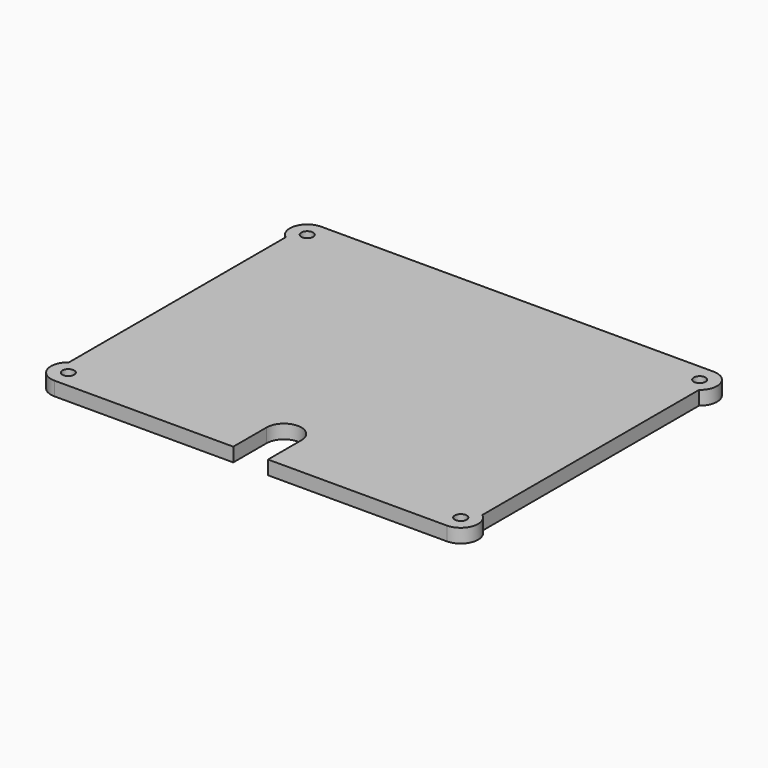
from build123d import *

# Parameters (mm, degrees)
SKETCH_R  = 1.7
PAD_DEPTH = 4


with BuildPart() as part:
    # Sketch → Pad (new body)
    with BuildSketch(Plane.XY):
        with BuildLine():
            Line((-56.499984, 48), (56.5, 48))
            ThreePointArc((59.5, 39), (61.243416, 44.581139), (56.5, 48))
            Line((59.5, 39), (59.5, -39))
            ThreePointArc((56.5, -48), (61.243416, -44.581139), (59.5, -39))
            Line((5, -48), (56.5, -48))
            Line((5, -48), (5, -36))
            ThreePointArc((5, -36), (0, -31), (-5, -36))
            Line((-5, -48), (-5, -36))
            Line((-56.5, -48), (-5, -48))
            ThreePointArc((-59.5, -39), (-61.243416, -44.581139), (-56.5, -48))
            Line((-59.5, 39), (-59.5, -39))
            ThreePointArc((-56.499984, 48), (-61.243414, 44.581147), (-59.5, 39))
        make_face()
        with Locations((-56.5, 43)):
            Circle(SKETCH_R, mode=Mode.SUBTRACT)
        with Locations((56.5, 43)):
            Circle(SKETCH_R, mode=Mode.SUBTRACT)
        with Locations((-56.5, -43)):
            Circle(SKETCH_R, mode=Mode.SUBTRACT)
        with Locations((56.5, -43)):
            Circle(SKETCH_R, mode=Mode.SUBTRACT)
    extrude(amount=PAD_DEPTH)


solid = part.part
